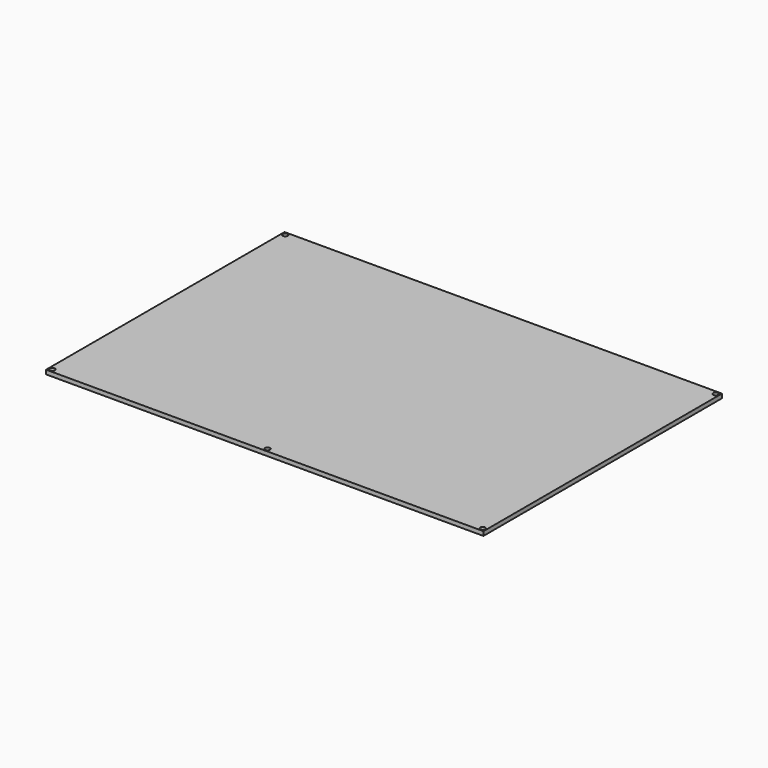
from build123d import *

# Parameters (mm, degrees)
F0_W     = 314
F0_H     = 214
F0_R     = 1.8
F1_DEPTH = 3


with BuildPart() as f1:
    # F0 (on Top) → F1 (new body)
    with BuildSketch(Plane.XY):
        Rectangle(F0_W, F0_H)
        with Locations((-154.5, -104.5)):
            Circle(F0_R, mode=Mode.SUBTRACT)
        with Locations((0, -104.5)):
            Circle(F0_R, mode=Mode.SUBTRACT)
        with Locations((154.5, -104.5)):
            Circle(F0_R, mode=Mode.SUBTRACT)
        with Locations((-154.5, 104.5)):
            Circle(F0_R, mode=Mode.SUBTRACT)
        with Locations((154.5, 104.5)):
            Circle(F0_R, mode=Mode.SUBTRACT)
    extrude(amount=F1_DEPTH)


solid = f1.part
